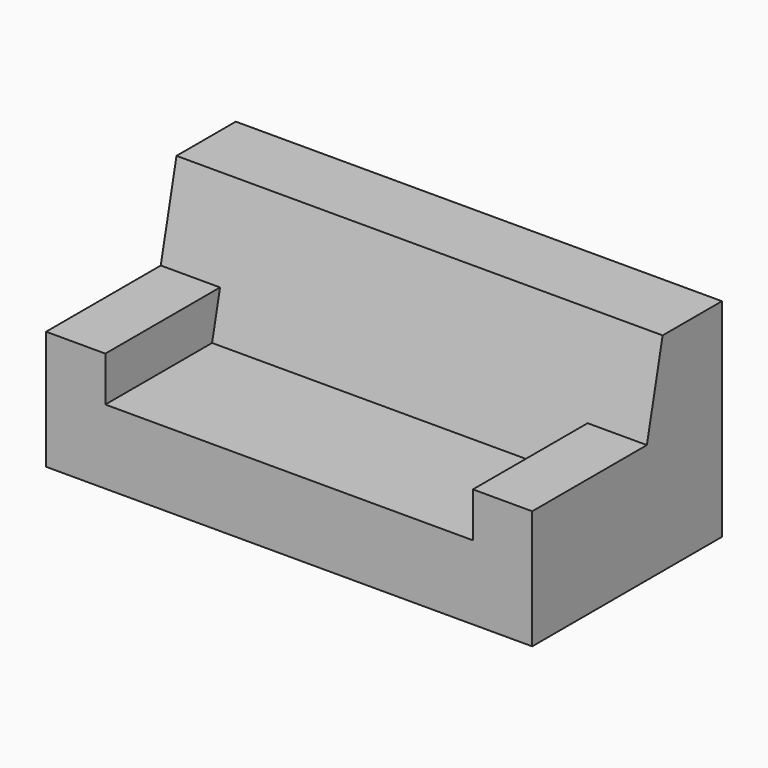
from build123d import *

# Parameters (mm, degrees)
F1_DEPTH = 104.14
F2_W     = 101.6
F2_H     = 50.960924
F3_DEPTH = 25.4


with BuildPart() as f1:
    # F0 (on Right) → F1 (new body, symmetric)
    with BuildSketch(Plane.YZ):
        Polygon((-101.6, 0), (0, 0), (0, 88.9), (-31.75, 88.9), (-44.45, 31.75), (-101.6, 31.75), align=None)
    extrude(amount=F1_DEPTH, both=True)

    # F2 (on face) → F3 (join)
    with BuildSketch(Plane.YZ.offset(104.14)):
        with Locations((-50.8, 25.480462)):
            Rectangle(F2_W, F2_H)
    extrude(amount=-F3_DEPTH)

    # F4: F1 across plane


with BuildPart() as f1_1:
    add(f1.part)
    add(f1.part.mirror(Plane.YZ))


solid = f1_1.part
